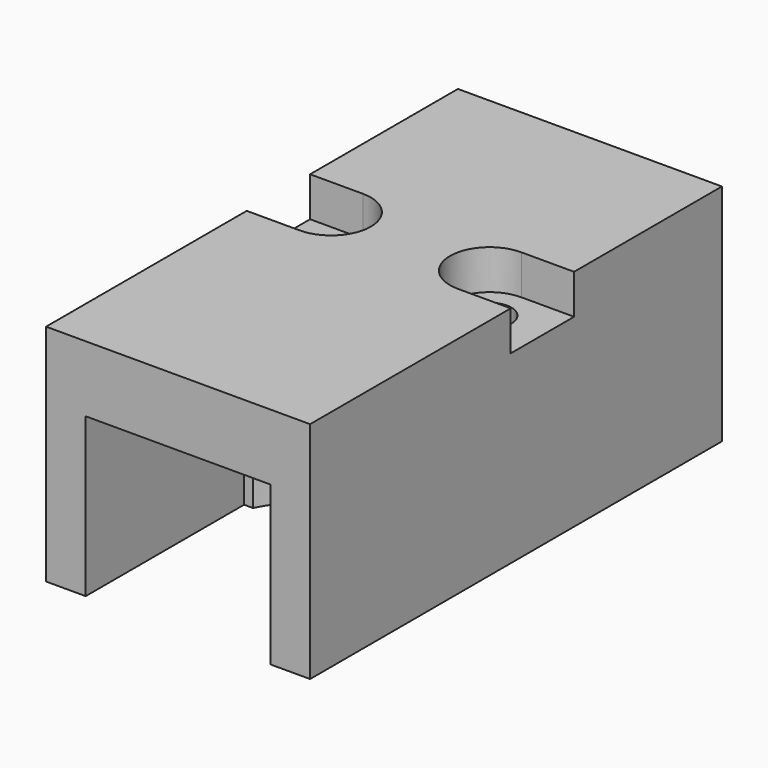
from build123d import *

# Parameters (mm, degrees)
CYLINDER005_R     = 3
CYLINDER005_DEPTH = 3
CYLINDER006_R     = 3
CYLINDER006_DEPTH = 3
BOX004_W          = 10
BOX004_H          = 6
BOX004_DEPTH      = 10
BOX005_W          = 10
BOX005_H          = 6
BOX005_DEPTH      = 10
CYLINDER010_R     = 1.65
CYLINDER010_DEPTH = 42
CYLINDER009_R     = 1.65
CYLINDER009_DEPTH = 42
BOX006_W          = 6
BOX006_H          = 32
BOX006_DEPTH      = 12
CYLINDER007_R     = 7
CYLINDER007_DEPTH = 6
CYLINDER008_R     = 7
CYLINDER008_DEPTH = 6
BOX001_W          = 20
BOX001_H          = 24
BOX001_DEPTH      = 17
BOX_W             = 20
BOX_H             = 15
BOX_DEPTH         = 5
BOX003_W          = 3
BOX003_H          = 39
BOX003_DEPTH      = 17
BOX007_W          = 3
BOX007_H          = 39
BOX007_DEPTH      = 17


with BuildPart() as cylinder005:
    # Cylinder005 → Cylinder005 (new body)
    with BuildSketch(Plane(origin=(6, 22, 0), x_dir=(1, 0, 0), z_dir=(0, 0, 1))):
        Circle(CYLINDER005_R)
    extrude(amount=CYLINDER005_DEPTH)


with BuildPart() as fusion001001001004:
    # Cylinder006 → Cylinder006 (new body)
    with BuildSketch(Plane(origin=(-6, 22, 0), x_dir=(1, 0, 0), z_dir=(0, 0, 1))):
        Circle(CYLINDER006_R)
    extrude(amount=CYLINDER006_DEPTH)

    # Fusion001001001004: union Cylinder005
    add(cylinder005.part)


with BuildPart() as fusion001001001004_1:
    # Fusion001001001004 placement: moved
    add(fusion001001001004.part.moved(Location((0, 0, 14))))


with BuildPart() as cube004:
    # Box004 → Box004 (new body)
    with BuildSketch(Plane(origin=(6, 19, 14), x_dir=(1, 0, 0), z_dir=(0, 0, 1))):
        with Locations((5, 3)):
            Rectangle(BOX004_W, BOX004_H)
    extrude(amount=BOX004_DEPTH)


with BuildPart() as fusion001001001005:
    # Box005 → Box005 (new body)
    with BuildSketch(Plane(origin=(-16, 19, 14), x_dir=(1, 0, 0), z_dir=(0, 0, 1))):
        with Locations((5, 3)):
            Rectangle(BOX005_W, BOX005_H)
    extrude(amount=BOX005_DEPTH)

    # Fusion001001001005: union Cube004
    add(cube004.part)


with BuildPart() as cylinder010:
    # Cylinder010 → Cylinder010 (new body)
    with BuildSketch(Plane(origin=(-6, 22, 0), x_dir=(1, 0, 0), z_dir=(0, 0, 1))):
        Circle(CYLINDER010_R)
    extrude(amount=CYLINDER010_DEPTH)


with BuildPart() as fusion001001001003:
    # Cylinder009 → Cylinder009 (new body)
    with BuildSketch(Plane(origin=(6, 22, 0), x_dir=(1, 0, 0), z_dir=(0, 0, 1))):
        Circle(CYLINDER009_R)
    extrude(amount=CYLINDER009_DEPTH)

    # Fusion001001001003: union Cylinder010
    add(cylinder010.part)


with BuildPart() as cube006:
    # Box006 → Box006 (new body)
    with BuildSketch(Plane(origin=(-3, 13, 0), x_dir=(1, 0, 0), z_dir=(0, 0, 1))):
        with Locations((3, 16)):
            Rectangle(BOX006_W, BOX006_H)
    extrude(amount=BOX006_DEPTH)


with BuildPart() as cylinder007:
    # Cylinder007 → Cylinder007 (new body)
    with BuildSketch(Plane(origin=(0, 32, 0), x_dir=(1, 0, 0), z_dir=(0, 0, 1))):
        Circle(CYLINDER007_R)
    extrude(amount=CYLINDER007_DEPTH)


with BuildPart() as fusion:
    # Cylinder008 → Cylinder008 (new body)
    with BuildSketch(Plane(origin=(0, 12, 0), x_dir=(1, 0, 0), z_dir=(0, 0, 1))):
        Circle(CYLINDER008_R)
    extrude(amount=CYLINDER008_DEPTH)

    # Fusion: union Cylinder007
    add(cylinder007.part)


with BuildPart() as cube001:
    # Box001 → Box001 (new body)
    with BuildSketch(Plane(origin=(-10, 15, 0), x_dir=(1, 0, 0), z_dir=(0, 0, 1))):
        with Locations((10, 12)):
            Rectangle(BOX001_W, BOX001_H)
    extrude(amount=BOX001_DEPTH)


with BuildPart() as cube:
    # Box → Box (new body)
    with BuildSketch(Plane(origin=(-10, 0, 12), x_dir=(1, 0, 0), z_dir=(0, 0, 1))):
        with Locations((10, 7.5)):
            Rectangle(BOX_W, BOX_H)
    extrude(amount=BOX_DEPTH)


with BuildPart() as cube003:
    # Box003 → Box003 (new body)
    with BuildSketch(Plane(origin=(-10, 0, 0), x_dir=(1, 0, 0), z_dir=(0, 0, 1))):
        with Locations((1.5, 19.5)):
            Rectangle(BOX003_W, BOX003_H)
    extrude(amount=BOX003_DEPTH)


with BuildPart() as base_endstop_mount_template:
    # Box007 → Box007 (new body)
    with BuildSketch(Plane(origin=(7, 0, 0), x_dir=(1, 0, 0), z_dir=(0, 0, 1))):
        with Locations((1.5, 19.5)):
            Rectangle(BOX007_W, BOX007_H)
    extrude(amount=BOX007_DEPTH)

    # Fusion001001001008: union Cube001, Cube, Cube003
    add(cube001.part)
    add(cube.part)
    add(cube003.part)

    # Cut002008023012009006003002002: cut Fusion
    add(fusion.part, mode=Mode.SUBTRACT)

    # Cut002008023012009006003002003: cut Cube006
    add(cube006.part, mode=Mode.SUBTRACT)

    # Cut002008023012009006003002004: cut Fusion001001001003
    add(fusion001001001003.part, mode=Mode.SUBTRACT)

    # Cut002008023012009006003002005: cut Fusion001001001005
    add(fusion001001001005.part, mode=Mode.SUBTRACT)

    # Cut002008023012009006003002006: cut Fusion001001001004
    add(fusion001001001004_1.part, mode=Mode.SUBTRACT)


solid = base_endstop_mount_template.part
